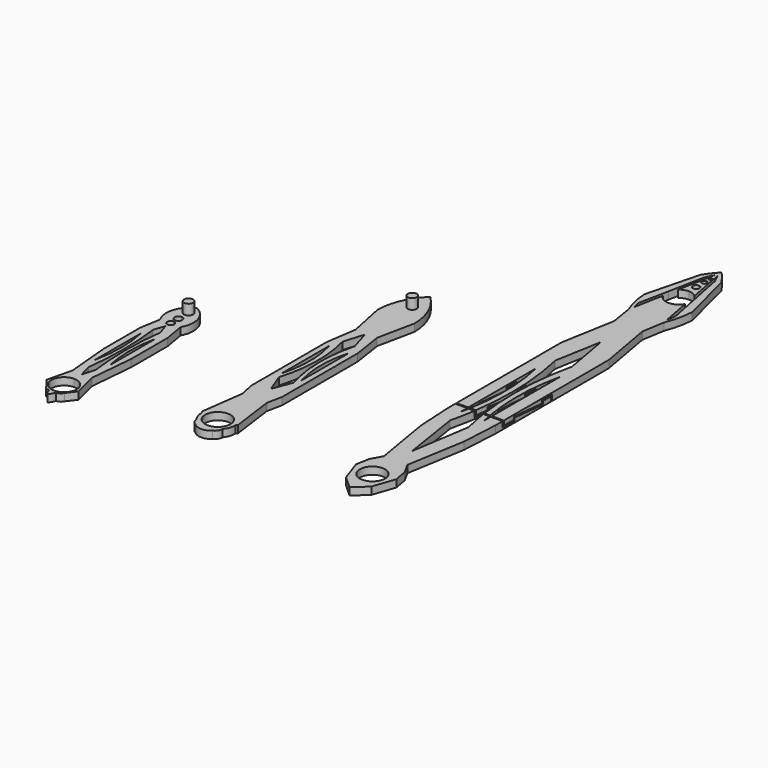
from build123d import *

# Parameters (mm, degrees)
F0_R      = 10.922
F1_DEPTH  = 6.35
F3_DEPTH  = 63.5
F4_R      = 10.922
F5_DEPTH  = 6.35
F6_R      = 3.937
F7_DEPTH  = 8.89
F9_DEPTH  = 6.35
F10_R     = 3.937
F11_DEPTH = 8.89


with BuildPart() as f1:
    # F0 (on Top) → F1 (new body)
    with BuildSketch(Plane.XY):
        with BuildLine():
            ThreePointArc((8.9640766971, 164.2109996164), (4.7571885915, 170.1839312453), (0, 175.7285661729))
            ThreePointArc((0, 175.7285661729), (-4.7571885915, 170.1839312453), (-8.9640766971, 164.2109996164))
            Line((-8.9640766971, 164.2109996164), (-20.7333669444, 118.1953996467))
            ThreePointArc((-20.7333669444, 118.1953996467), (-18.967940795, 106.1044764167), (-15.3009378727, 94.4485661729))
            Line((-15.3009378727, 94.4485661729), (-12.1516889562, 75.116702654))
            Line((-12.1516889562, 75.116702654), (-20.4088091295, 28.7084915592))
            Line((-20.4088091295, 28.7084915592), (-20.4088091295, -93.2472589509))
            Line((-20.4088091295, -93.2472589509), (-18.6252967063, -125.2675521271))
            Line((-18.6252967063, -125.2675521271), (-10.1097067262, -175.5781116979))
            Line((-10.1097067262, -175.5781116979), (-15.3009378727, -184.9514338271))
            Line((-15.3009378727, -184.9514338271), (-17.3941403072, -196.6442409055))
            Line((-17.3941403072, -196.6442409055), (-10.8774844001, -215.4701146381))
            Line((-10.8774844001, -215.4701146381), (0, -225.392267108))
            Line((0, -225.392267108), (10.8774844001, -215.4701146381))
            Line((10.8774844001, -215.4701146381), (17.3941403072, -196.6442409055))
            Line((17.3941403072, -196.6442409055), (15.3009378727, -184.9514338271))
            Line((15.3009378727, -184.9514338271), (10.1097067262, -175.5781116979))
            Line((10.1097067262, -175.5781116979), (18.6252967063, -125.2675521271))
            Line((18.6252967063, -125.2675521271), (20.4088091295, -93.2472589509))
            Line((20.4088091295, -93.2472589509), (20.4088091295, 28.7084915592))
            Line((20.4088091295, 28.7084915592), (12.1516889562, 75.116702654))
            Line((12.1516889562, 75.116702654), (15.3009378727, 94.4485661729))
            ThreePointArc((15.3009378727, 94.4485661729), (18.967940795, 106.1044764167), (20.7333669444, 118.1953996467))
            Line((20.7333669444, 118.1953996467), (8.9640766971, 164.2109996164))
        make_face()
        with BuildLine():
            Line((-10.1895864302, -92.5320422444), (-10.1895864302, -11.4359323103))
            ThreePointArc((-10.1895864302, -11.4359323103), (-5.6615444894, -51.9839872773), (-10.1895864302, -92.5320422444))
        make_face(mode=Mode.SUBTRACT)
        with Locations((0, -200.5927860737)):
            Circle(F0_R, mode=Mode.SUBTRACT)
        with BuildLine():
            Line((-7.1892461922, 5.4271410371), (0, 45.8334870636))
            Line((0, 45.8334870636), (7.1892461922, 5.4271410371))
            ThreePointArc((7.1892461922, 5.4271410371), (1.0517522506, -50.716106343), (7.9739705938, -106.7680104274))
            Line((7.9739705938, -106.7680104274), (0, -158.0030620098))
            Line((0, -158.0030620098), (-7.9739705938, -106.7680104274))
            ThreePointArc((-7.9739705938, -106.7680104274), (-1.0517522506, -50.716106343), (-7.1892461922, 5.4271410371))
        make_face(mode=Mode.SUBTRACT)
        with BuildLine():
            ThreePointArc((10.1895864302, -92.5320422444), (5.6615444894, -51.9839872773), (10.1895864302, -11.4359323103))
            Line((10.1895864302, -11.4359323103), (10.1895864302, -92.5320422444))
        make_face(mode=Mode.SUBTRACT)
        with BuildLine():
            Line((14.4111135573, 99.1753954008), (9.6465380049, 124.4852622943))
            ThreePointArc((9.6465380049, 124.4852622943), (5.6279715829, 120.2468709912), (0, 118.6852139263))
            ThreePointArc((0, 118.6852139263), (-5.6279715829, 120.2468709912), (-9.6465380049, 124.4852622943))
            Line((-9.6465380049, 124.4852622943), (-14.4111135573, 99.1753954008))
            Line((-14.4111135573, 99.1753954008), (-15.8473927513, 105.9820717418))
            Line((-15.8473927513, 105.9820717418), (-10.7111741438, 131.7428244855))
            Line((-10.7111741438, 131.7428244855), (-4.5041078914, 162.8744236665))
            Line((-4.5041078914, 162.8744236665), (-1.0370266508, 170.2197844967))
            Line((-1.0370266508, 170.2197844967), (-7.1238187715, 137.886180656))
            ThreePointArc((-7.1238187715, 137.886180656), (-3.7991584186, 139.847159205), (0, 140.5292139263))
            ThreePointArc((0, 140.5292139263), (3.7991584186, 139.847159205), (7.1238187715, 137.886180656))
            Line((7.1238187715, 137.886180656), (1.0370266508, 170.2197844967))
            Line((1.0370266508, 170.2197844967), (4.5041078914, 162.8744236665))
            Line((4.5041078914, 162.8744236665), (10.7111740334, 131.7428250392))
            Line((10.7111740334, 131.7428250392), (15.8473927513, 105.9820717418))
            Line((15.8473927513, 105.9820717418), (14.4111135573, 99.1753954008))
        make_face(mode=Mode.SUBTRACT)
        with BuildLine():
            ThreePointArc((2.8315200177, 148.3261734247), (2.0021870056, 146.3239864191), (0, 145.494653407))
            ThreePointArc((0, 145.494653407), (-2.8315200177, 148.3261734247), (0, 151.1576934425))
            ThreePointArc((0, 151.1576934425), (2.0021870056, 150.3283604303), (2.8315200177, 148.3261734247))
        make_face(mode=Mode.SUBTRACT)
        with BuildLine():
            ThreePointArc((2.1808817963, 157.2861224413), (1.5421163071, 155.7440061342), (0, 155.105240645))
            ThreePointArc((0, 155.105240645), (-2.1808817963, 157.2861224413), (0, 159.4670042376))
            ThreePointArc((0, 159.4670042376), (1.5421163071, 158.8282387484), (2.1808817963, 157.2861224413))
        make_face(mode=Mode.SUBTRACT)
        with BuildLine():
            ThreePointArc((1.4080964907, 163.6860817671), (0.9956745771, 162.6904071899), (0, 162.2779852764))
            ThreePointArc((0, 162.2779852764), (-1.4080964907, 163.6860817671), (0, 165.0941782578))
            ThreePointArc((0, 165.0941782578), (0.9956745771, 164.6817563442), (1.4080964907, 163.6860817671))
        make_face(mode=Mode.SUBTRACT)
    extrude(amount=F1_DEPTH)

    # F2 (on Right) → F3 (cut, symmetric)
    with BuildSketch(Plane.YZ):
        Polygon((-84.5304495454, 2.4815950417), (-84.5304495454, 11.5326897712), (-85.8004495454, 11.5326897712), (-85.8004495454, 1.3804449033), (-72.7947662935, 1.3804449033), (-72.7947662935, 3.7804429598), (-42.0691047248, 1.30256672), (-42.0691047248, 4.0713517558), (-33.5947947788, 4.0713517558), (-33.5947947788, -5.5286400787), (-32.4254937518, -5.8356286963), (-32.4254937518, 4.9278371565), (-43.4335832684, 4.9278371565), (-43.4335832684, 2.4815950417), (-73.7669817367, 4.9278371565), (-73.7669817367, 2.4815950417), align=None)
    extrude(amount=F3_DEPTH, both=True, mode=Mode.SUBTRACT)


with BuildPart() as f5:
    # F4 (on Top) → F5 (new body)
    with BuildSketch(Plane.XY):
        with BuildLine():
            ThreePointArc((-130.932743102, 25.4064202199), (-142.5931421945, 8.5904408538), (-146.9454264285, -11.4045507937))
            Line((-146.9454264285, -11.4045507937), (-140.2981281281, -43.4812568128))
            Line((-140.2981281281, -43.4812568128), (-144.2214697599, -69.517955184))
            Line((-144.2214697599, -69.517955184), (-144.2214697599, -150.838047266))
            Line((-144.2214697599, -150.838047266), (-141.5442600846, -164.0221476555))
            Line((-141.5442600846, -164.0221476555), (-146.5670381606, -201.2820022898))
            Line((-146.5670381606, -201.2820022898), (-145.4106608977, -202.8496284653))
            ThreePointArc((-145.4106608977, -202.8496284653), (-144.6639324058, -207.9099244669), (-142.2048786222, -212.3951506098))
            ThreePointArc((-142.2048786222, -212.3951506098), (-141.1301738918, -216.0796878153), (-138.2605924026, -218.628473164))
            ThreePointArc((-138.2605924026, -218.628473164), (-130.932743102, -221.5050742666), (-123.6048938013, -218.628473164))
            ThreePointArc((-123.6048938013, -218.628473164), (-120.7353123121, -216.0796878153), (-119.6606075817, -212.3951506098))
            ThreePointArc((-119.6606075817, -212.3951506098), (-117.2015537981, -207.9099244669), (-116.4548253062, -202.8496284653))
            Line((-116.4548253062, -202.8496284653), (-115.2984480433, -201.2820022898))
            Line((-115.2984480433, -201.2820022898), (-120.3212261193, -164.0221476555))
            Line((-120.3212261193, -164.0221476555), (-117.644016444, -150.838047266))
            Line((-117.644016444, -150.838047266), (-117.644016444, -69.517955184))
            Line((-117.644016444, -69.517955184), (-121.5673580759, -43.4812568128))
            Line((-121.5673580759, -43.4812568128), (-114.9200597754, -11.4045507937))
            ThreePointArc((-114.9200597754, -11.4045507937), (-119.2723440094, 8.5904408538), (-130.932743102, 25.4064202199))
        make_face()
        with Locations((-130.932743102, -203.6194801331)):
            Circle(F4_R, mode=Mode.SUBTRACT)
        with BuildLine():
            ThreePointArc((-139.3835246563, -72.9144364595), (-135.8177506895, -98.594468087), (-139.3835246563, -124.2744997144))
            Line((-139.3835246563, -124.2744997144), (-139.3835246563, -72.9144364595))
        make_face(mode=Mode.SUBTRACT)
        with BuildLine():
            Line((-122.4819615476, -72.9144364595), (-122.4819615476, -124.2744997144))
            ThreePointArc((-122.4819615476, -124.2744997144), (-126.0477355144, -98.594468087), (-122.4819615476, -72.9144364595))
        make_face(mode=Mode.SUBTRACT)
        with BuildLine():
            Line((-136.2629141849, -62.6413635464), (-130.932743102, -45.0944006443))
            Line((-130.932743102, -45.0944006443), (-125.6025720191, -62.6413635464))
            ThreePointArc((-125.6025720191, -62.6413635464), (-129.7709593905, -96.2094303346), (-124.5272291286, -129.6263998877))
            Line((-124.5272291286, -129.6263998877), (-130.932743102, -146.3878601789))
            Line((-130.932743102, -146.3878601789), (-137.3382570753, -129.6263998877))
            ThreePointArc((-137.3382570753, -129.6263998877), (-132.0945268135, -96.2094303346), (-136.2629141849, -62.6413635464))
        make_face(mode=Mode.SUBTRACT)
        with BuildLine():
            ThreePointArc((-130.932743102, -1.816348511), (-136.500501897, 11.625410284), (-123.058743102, 6.057651489))
            ThreePointArc((-123.058743102, 6.057651489), (-125.3649843069, 0.4898926939), (-130.932743102, -1.816348511))
        make_face(mode=Mode.SUBTRACT)
        with BuildLine():
            ThreePointArc((-130.932743102, -1.816348511), (-125.3649843069, 0.4898926939), (-123.058743102, 6.057651489))
            ThreePointArc((-123.058743102, 6.057651489), (-136.500501897, 11.625410284), (-130.932743102, -1.816348511))
        make_face()
    extrude(amount=F5_DEPTH)

    # F6 (on face) → F7 (join)
    with BuildSketch(Plane.XY.offset(6.35)):
        with Locations((-130.932743102, 6.057651489)):
            Circle(F6_R)
    extrude(amount=F7_DEPTH)


with BuildPart() as f9:
    # F8 (on Top) → F9 (new body)
    with BuildSketch(Plane.XY):
        with BuildLine():
            ThreePointArc((-234.6306154746, -114.047599305), (-232.7856166126, -97.8096311549), (-243.4933632612, -85.4637900676))
            ThreePointArc((-243.4933632612, -85.4637900676), (-254.2011099098, -97.8096311549), (-252.3561110478, -114.047599305))
            Line((-252.3561110478, -114.047599305), (-255.3520419181, -131.7508955955))
            Line((-255.3520419181, -131.7508955955), (-255.3520419181, -171.1523130731))
            Line((-255.3520419181, -171.1523130731), (-251.975164022, -208.9120941611))
            Line((-251.975164022, -208.9120941611), (-257.1657639057, -230.3342521191))
            Line((-257.1657639057, -230.3342521191), (-251.257989766, -238.1264482056))
            ThreePointArc((-251.257989766, -238.1264482056), (-249.2599618406, -240.3190482815), (-246.3970640099, -241.0958537228))
            ThreePointArc((-246.3970640099, -241.0958537228), (-245.3278365921, -243.9110783091), (-243.4933632612, -246.2992668152))
            ThreePointArc((-243.4933632612, -246.2992668152), (-241.6588899303, -243.9110783091), (-240.5896625126, -241.0958537228))
            ThreePointArc((-240.5896625126, -241.0958537228), (-237.7267646818, -240.3190482815), (-235.7287367565, -238.1264482056))
            Line((-235.7287367565, -238.1264482056), (-229.8209626168, -230.3342521191))
            Line((-229.8209626168, -230.3342521191), (-235.0115625004, -208.9120941611))
            Line((-235.0115625004, -208.9120941611), (-231.6346846043, -171.1523130731))
            Line((-231.6346846043, -171.1523130731), (-231.6346846043, -131.7508955955))
            Line((-231.6346846043, -131.7508955955), (-234.6306154746, -114.047599305))
        make_face()
        with BuildLine():
            ThreePointArc((-254.1851920491, -230.8945294332), (-251.9683557439, -221.7746305432), (-243.4933632612, -217.742085269))
            ThreePointArc((-243.4933632612, -217.742085269), (-235.7703429971, -220.9410650049), (-232.5713632612, -228.664085269))
            ThreePointArc((-232.5713632612, -228.664085269), (-232.6290584509, -229.7852297687), (-232.8015344733, -230.8945294332))
            ThreePointArc((-232.8015344733, -230.8945294332), (-233.68527276, -233.4694411059), (-235.1783606231, -235.7458092912))
            ThreePointArc((-235.1783606231, -235.7458092912), (-235.1831182957, -235.7513917117), (-235.1878797162, -235.7569709358))
            ThreePointArc((-235.1878797162, -235.7569709358), (-243.4933632612, -239.586085269), (-251.7988468063, -235.7569709358))
            ThreePointArc((-251.7988468063, -235.7569709358), (-251.8036082267, -235.7513917117), (-251.8083658994, -235.7458092912))
            ThreePointArc((-251.8083658994, -235.7458092912), (-253.3014537624, -233.4694411059), (-254.1851920491, -230.8945294332))
        make_face(mode=Mode.SUBTRACT)
        Polygon((-246.6537505388, -128.6542556077), (-243.4933632612, -119.3184090435), (-240.3329759836, -128.6542556077), (-237.172588706, -137.9901021719), (-237.172588706, -187.424570322), (-240.3329759836, -198.5294148326), (-243.4933632612, -209.6342593431), (-246.6537505388, -198.5294148326), (-249.8141378164, -187.424570322), (-249.8141378164, -137.9901021719), align=None, mode=Mode.SUBTRACT)
        with BuildLine():
            ThreePointArc((-240.4557988849, -113.6644035578), (-241.3454808924, -115.8122859266), (-243.4933632612, -116.7019679341))
            ThreePointArc((-243.4933632612, -116.7019679341), (-246.5309276376, -113.6644035578), (-243.4933632612, -110.6268391814))
            ThreePointArc((-243.4933632612, -110.6268391814), (-241.3454808924, -111.516521189), (-240.4557988849, -113.6644035578))
        make_face(mode=Mode.SUBTRACT)
        with BuildLine():
            ThreePointArc((-240.1608728473, -105.3574234247), (-241.1369366913, -107.7138499946), (-243.4933632612, -108.6899138386))
            ThreePointArc((-243.4933632612, -108.6899138386), (-246.8258536751, -105.3574234247), (-243.4933632612, -102.0249330108))
            ThreePointArc((-243.4933632612, -102.0249330108), (-241.1369366913, -103.0009968548), (-240.1608728473, -105.3574234247))
        make_face(mode=Mode.SUBTRACT)
        with BuildLine():
            ThreePointArc((-239.5563632612, -95.8000998109), (-240.7094838637, -98.5839792085), (-243.4933632612, -99.7370998109))
            ThreePointArc((-243.4933632612, -99.7370998109), (-247.4303632612, -95.8000998109), (-243.4933632612, -91.8630998109))
            ThreePointArc((-243.4933632612, -91.8630998109), (-240.7094838637, -93.0162204134), (-239.5563632612, -95.8000998109))
        make_face(mode=Mode.SUBTRACT)
        with BuildLine():
            ThreePointArc((-246.6537505388, -198.5294148326), (-244.4293254007, -163.5918352202), (-246.6537505388, -128.6542556077))
            Line((-246.6537505388, -128.6542556077), (-249.8141378164, -137.9901021719))
            ThreePointArc((-249.8141378164, -137.9901021719), (-247.1920392208, -162.707336247), (-249.8141378164, -187.424570322))
            Line((-249.8141378164, -187.424570322), (-246.6537505388, -198.5294148326))
        make_face()
        with BuildLine():
            Line((-237.172588706, -137.9901021719), (-240.3329759836, -128.6542556077))
            ThreePointArc((-240.3329759836, -128.6542556077), (-242.5574011217, -163.5918352202), (-240.3329759836, -198.5294148326))
            Line((-240.3329759836, -198.5294148326), (-237.172588706, -187.424570322))
            ThreePointArc((-237.172588706, -187.424570322), (-239.7946873016, -162.707336247), (-237.172588706, -137.9901021719))
        make_face()
        with BuildLine():
            Line((-243.4933632612, -91.8630998109), (-243.4933632612, -99.7370998109))
            ThreePointArc((-243.4933632612, -99.7370998109), (-240.7094838637, -98.5839792085), (-239.5563632612, -95.8000998109))
            ThreePointArc((-239.5563632612, -95.8000998109), (-240.7094838637, -93.0162204134), (-243.4933632612, -91.8630998109))
        make_face()
        with BuildLine():
            ThreePointArc((-243.4933632612, -91.8630998109), (-247.4303632612, -95.8000998109), (-243.4933632612, -99.7370998109))
            Line((-243.4933632612, -99.7370998109), (-243.4933632612, -91.8630998109))
        make_face()
    extrude(amount=F9_DEPTH)

    # F10 (on face) → F11 (join)
    with BuildSketch(Plane.XY.offset(6.35)):
        with Locations((-243.4933632612, -94.4410191163)):
            Circle(F10_R)
    extrude(amount=F11_DEPTH)


solid = Compound([f1.part, f5.part, f9.part])
